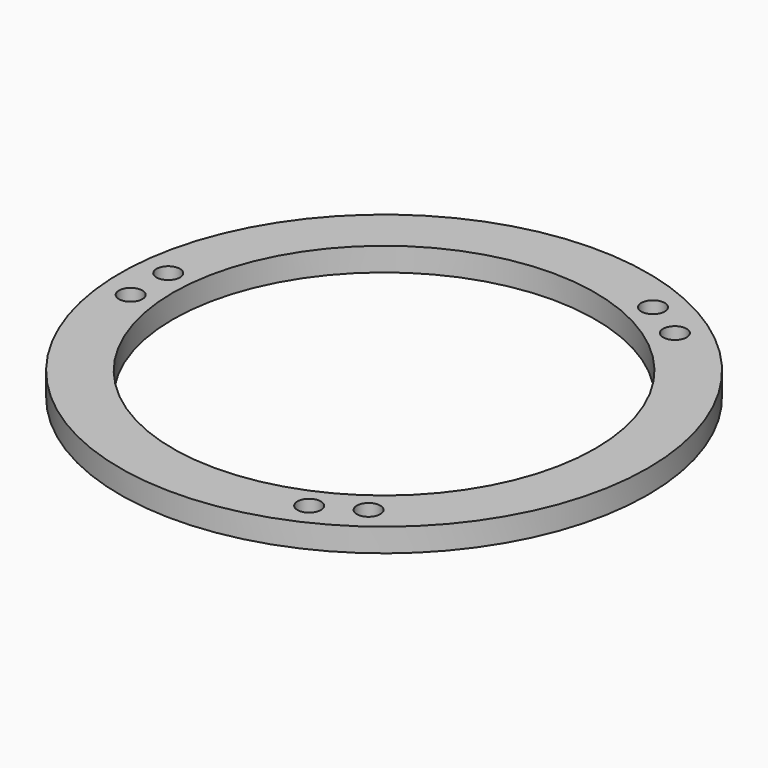
from build123d import *

# Parameters (mm, degrees)
F0_R     = 225
F0_R_2   = 10
F0_R_3   = 180
F1_DEPTH = 20


with BuildPart() as f1:
    # F0 (on Top) → F1 (new body)
    with BuildSketch(Plane.XY):
        Circle(F0_R)
        with Locations((-200, -20)):
            Circle(F0_R_2, mode=Mode.SUBTRACT)
        with Locations((82.679492, -183.205081)):
            Circle(F0_R_2, mode=Mode.SUBTRACT)
        with Locations((117.320508, -163.205081)):
            Circle(F0_R_2, mode=Mode.SUBTRACT)
        with Locations((-200, 20)):
            Circle(F0_R_2, mode=Mode.SUBTRACT)
        Circle(F0_R_3, mode=Mode.SUBTRACT)
        with Locations((82.679492, 183.205081)):
            Circle(F0_R_2, mode=Mode.SUBTRACT)
        with Locations((117.320508, 163.205081)):
            Circle(F0_R_2, mode=Mode.SUBTRACT)
    extrude(amount=F1_DEPTH)


solid = f1.part
